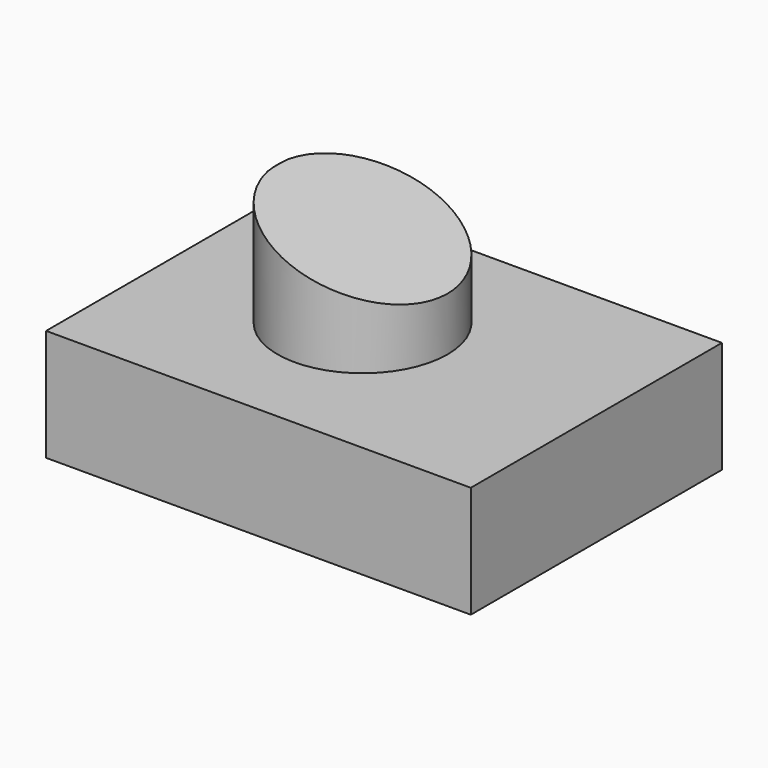
from build123d import *

# Parameters (mm, degrees)
F0_W     = 96.52
F0_H     = 71.332879
F1_DEPTH = 25.4
F2_R     = 19.327986
F3_DEPTH = 25.4
F5_DEPTH = 71.333879


with BuildPart() as f1:
    # F0 (on Top) → F1 (new body)
    with BuildSketch(Plane.XY):
        with Locations((6.314097, -1.790567)):
            Rectangle(F0_W, F0_H)
    extrude(amount=F1_DEPTH)

    # F2 (on face) → F3 (join)
    with BuildSketch(Plane.XY.offset(25.4)):
        Circle(F2_R)
    extrude(amount=F3_DEPTH)

    # F4 (on face) → F5 (cut, through all)
    with BuildSketch(Plane.XZ.offset(37.457006)):
        Polygon((-20.252686, 51.20115), (54.574097, 25.4), (54.574097, 51.20115), align=None)
    extrude(amount=-F5_DEPTH, mode=Mode.SUBTRACT)


solid = f1.part
